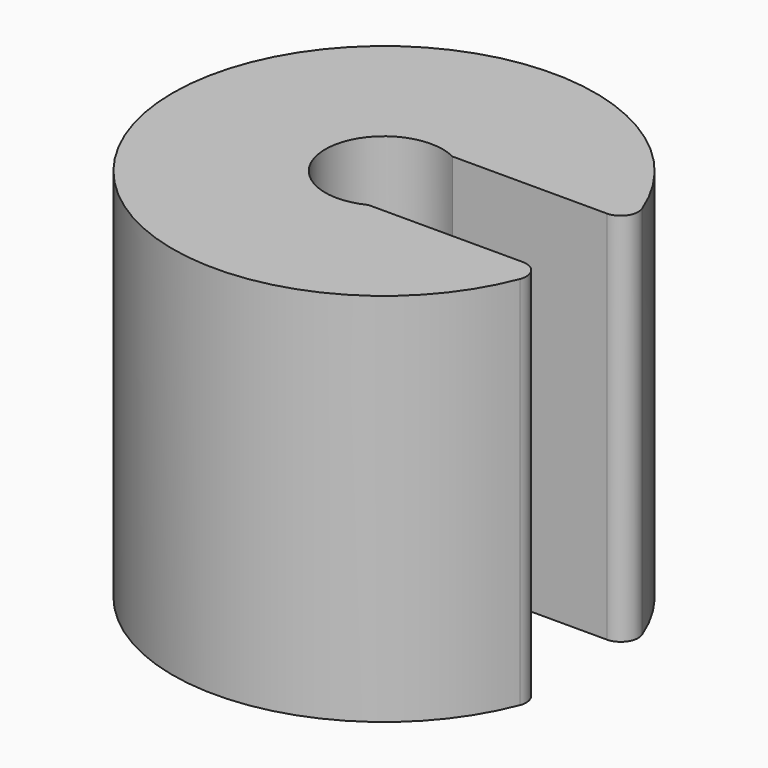
from build123d import *

# Parameters (mm, degrees)
F1_DEPTH = 15
F2_R     = 0.7


with BuildPart() as f1:
    # F0 (on Top) → F1 (new body)
    with BuildSketch(Plane.XY):
        with BuildLine():
            Line((1.054751, 2.1), (8.184895, 2.1))
            ThreePointArc((8.184895, 2.1), (-8.45, 0), (8.184895, -2.1))
            Line((8.184895, -2.1), (1.054751, -2.1))
            ThreePointArc((1.054751, -2.1), (-2.35, 0), (1.054751, 2.1))
        make_face()
    extrude(amount=F1_DEPTH)

    # F2
    f2_edges = [f1.edges().sort_by_distance(p)[0] for p in [
        (8.184895, 2.1, 7.5),
        (8.184895, -2.1, 7.5),
    ]]
    fillet(f2_edges, radius=F2_R)


solid = f1.part
